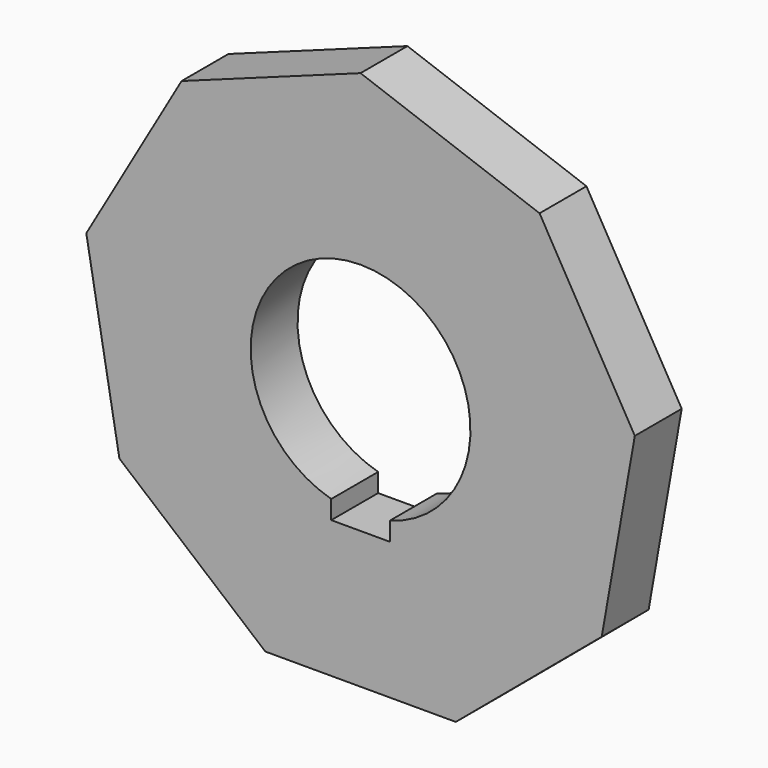
from build123d import *

# Parameters (mm, degrees)
F1_DEPTH = 20
F3_DEPTH = 25


with BuildPart() as f1:
    # F0 (on Front) → F1 (new body)
    with BuildSketch(Plane.XZ):
        Polygon((-32.5, -89.293016), (32.5, -89.293016), (82.292889, -47.511822), (93.58002, 16.500682), (61.08002, 72.792334), (0, 95.023643), (-61.08002, 72.792334), (-93.58002, 16.500682), (-82.292889, -47.511822), align=None)
    extrude(amount=F1_DEPTH)

    # F2 (on face) → F3 (cut)
    with BuildSketch(Plane.XZ.offset(20)):
        with BuildLine():
            Line((10, -42.5), (10, -36.142081))
            ThreePointArc((10, -36.142081), (0, 37.5), (-10, -36.142081))
            Line((-10, -36.142081), (-10, -42.5))
            Line((-10, -42.5), (0, -42.5))
            Line((0, -42.5), (10, -42.5))
        make_face()
        with BuildLine():
            Line((10, -42.5), (10, -36.142081))
            ThreePointArc((10, -36.142081), (0, 37.5), (-10, -36.142081))
            Line((-10, -36.142081), (-10, -42.5))
            Line((-10, -42.5), (0, -42.5))
            Line((0, -42.5), (10, -42.5))
        make_face()
    extrude(amount=-F3_DEPTH, mode=Mode.SUBTRACT)


solid = f1.part
